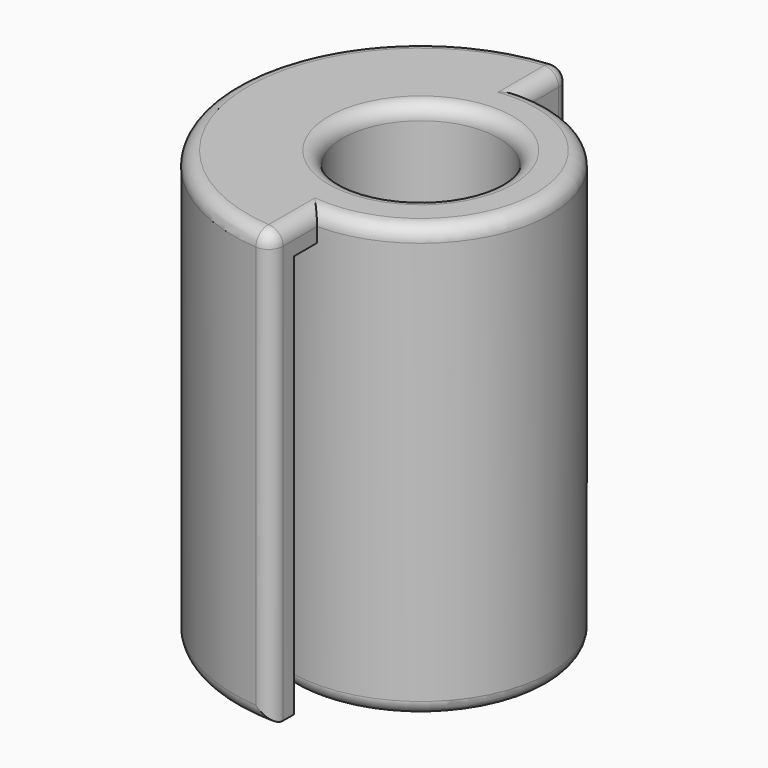
from build123d import *

# Parameters (mm, degrees)
F0_R     = 9
F0_R_2   = 5.4
F1_DEPTH = 30
F2_DEPTH = 5
F4_DEPTH = 2
F5_DEPTH = 30
F6_R     = 1


with BuildPart() as f1:
    # F0 (on Top) → F1 (new body)
    with BuildSketch(Plane.XY):
        Circle(F0_R)
        Circle(F0_R_2, mode=Mode.SUBTRACT)
    extrude(amount=F1_DEPTH)

    # F0 (on Top) → F2 (join)
    with BuildSketch(Plane.XY):
        Circle(F0_R_2)
    extrude(amount=F2_DEPTH)

    # F3 (on face) → F4 (join)
    with BuildSketch(Plane.XY.offset(30)):
        with BuildLine():
            Line((0, 11), (0, 13))
            ThreePointArc((0, 13), (-13, 0), (0, -13))
            Line((0, -13), (0, -11))
            ThreePointArc((0, -11), (-11, 0), (0, 11))
        make_face()
        with BuildLine():
            Line((0, 9), (0, 11))
            ThreePointArc((0, 11), (-11, 0), (0, -11))
            Line((0, -11), (0, -9))
            ThreePointArc((0, -9), (-9, 0), (0, 9))
        make_face()
    extrude(amount=-F4_DEPTH)

    # F3 (on face) → F5 (join)
    with BuildSketch(Plane.XY.offset(30)):
        with BuildLine():
            Line((0, 11), (0, 13))
            ThreePointArc((0, 13), (-13, 0), (0, -13))
            Line((0, -13), (0, -11))
            ThreePointArc((0, -11), (-11, 0), (0, 11))
        make_face()
    extrude(amount=-F5_DEPTH)

    # F6
    f6_edges = [f1.edges().sort_by_distance(p)[0] for p in [
        (-9, 0, 0),
        (-13, 0, 0),
        (-13, 0, 30),
        (0, 13, 15),
        (0, -13, 15),
        (0, -11, 30),
        (0, 11, 30),
        (6.363961, -6.363961, 30),
        (6.363961, 6.363961, 30),
        (-5.4, 0, 30),
    ]]
    fillet(f6_edges, radius=F6_R)


solid = f1.part
